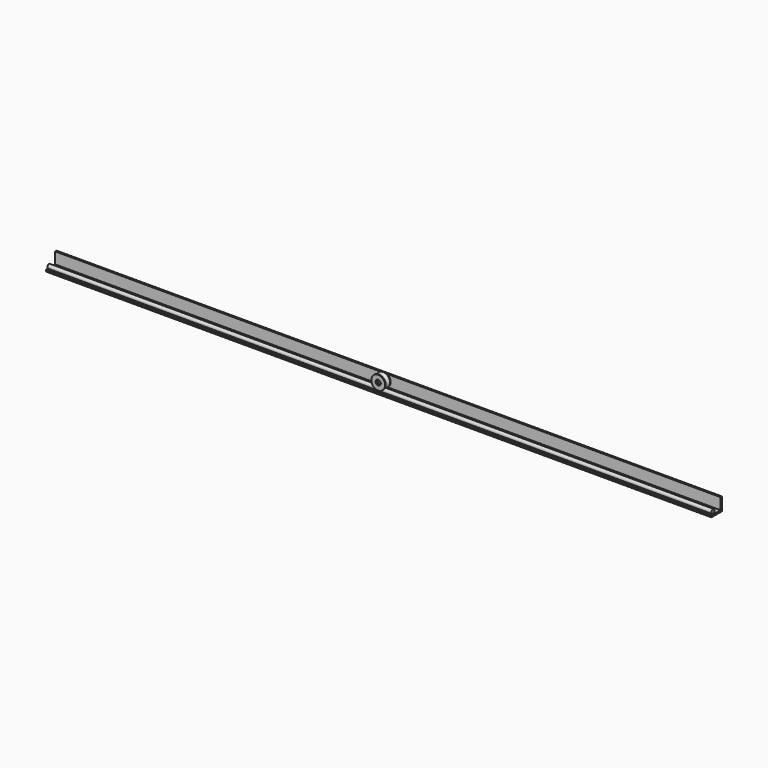
from build123d import *

# Parameters (mm, degrees)
F0_R     = 6
F1_DEPTH = 960
F6_DEPTH = 962


with BuildPart() as f1:
    # F0 (on Right) → F1 (new body, symmetric)
    with BuildSketch(Plane.YZ):
        Circle(F0_R)
    extrude(amount=F1_DEPTH, both=True)


with BuildPart() as f4:
    # F2 (on Right) → F4 (revolve)
    with BuildSketch(Plane.YZ):
        with BuildLine():
            Line((5.5, 15.5), (-5.5, 15.5))
            Line((-5.5, 15.5), (-5.5, 12.5))
            Line((-5.5, 12.5), (-10, 12.5))
            Line((-10, 12.5), (-10, 0))
            Line((-10, 0), (-7.745967, 0))
            ThreePointArc((-7.745967, 0), (0, 6), (7.745967, 0))
            Line((7.745967, 0), (10, 0))
            Line((10, 0), (10, 12.5))
            Line((10, 12.5), (5.5, 12.5))
            Line((5.5, 12.5), (5.5, 15.5))
        make_face()
    revolve(axis=Axis((0, -0.010755, 20), (0, 1, 0)))


with BuildPart() as f6:
    # F5 (on Right) → F6 (new body, symmetric)
    with BuildSketch(Plane.YZ):
        Polygon((25, -6), (-8, -6), (-8, -11), (30, -11), (30, 27), (25, 27), align=None)
    extrude(amount=F6_DEPTH, both=True)


solid = Compound([f1.part, f4.part, f6.part])
